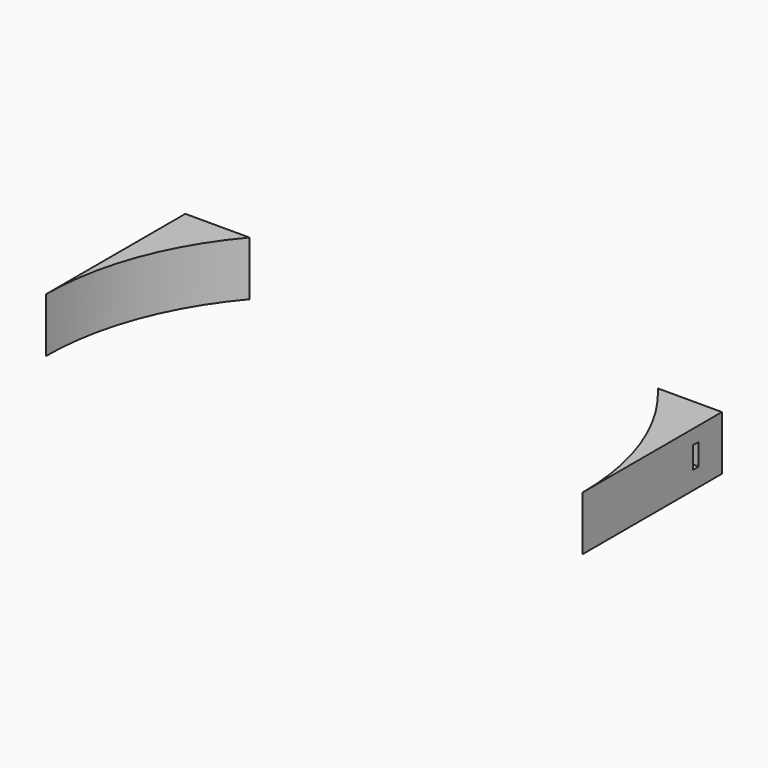
from build123d import *

# Parameters (mm, degrees)
CYLINDER2044_R     = 1.5
CYLINDER2044_DEPTH = 50
CYLINDER2045_R     = 1.5
CYLINDER2045_DEPTH = 50
BOX317_W           = 8
BOX317_H           = 2
BOX317_DEPTH       = 6
BOX316_W           = 8
BOX316_H           = 2
BOX316_DEPTH       = 6
CYLINDER2042_R     = 74
CYLINDER2042_DEPTH = 15
CYLINDER2043_R     = 74
CYLINDER2043_DEPTH = 15
BOX315_W           = 148
BOX315_H           = 48
BOX315_DEPTH       = 15


with BuildPart() as obj1:
    # Cylinder2044 → Cylinder2044 (new body)
    with BuildSketch(Plane(origin=(-71, 80, 24), x_dir=(1, 0, 0), z_dir=(0, -1, 0))):
        Circle(CYLINDER2044_R)
    extrude(amount=CYLINDER2044_DEPTH)


with BuildPart() as compound1088:
    # Cylinder2045 → Cylinder2045 (new body)
    with BuildSketch(Plane(origin=(71, 80, 24), x_dir=(1, 0, 0), z_dir=(0, -1, 0))):
        Circle(CYLINDER2045_R)
    extrude(amount=CYLINDER2045_DEPTH)

    # Compound1088: union obj1
    add(obj1.part)


with BuildPart() as krychle317:
    # Box317 → Box317 (new body)
    with BuildSketch(Plane(origin=(-75, 38, 21), x_dir=(1, 0, 0), z_dir=(0, 0, 1))):
        with Locations((4, 1)):
            Rectangle(BOX317_W, BOX317_H)
    extrude(amount=BOX317_DEPTH)


with BuildPart() as compound1087:
    # Box316 → Box316 (new body)
    with BuildSketch(Plane(origin=(67, 38, 21), x_dir=(1, 0, 0), z_dir=(0, 0, 1))):
        with Locations((4, 1)):
            Rectangle(BOX316_W, BOX316_H)
    extrude(amount=BOX316_DEPTH)

    # Compound1087: union Krychle317
    add(krychle317.part)


with BuildPart() as obj2:
    # Cylinder2042 → Cylinder2042 (new body)
    with BuildSketch(Plane.XY.offset(16)):
        Circle(CYLINDER2042_R)
    extrude(amount=CYLINDER2042_DEPTH)


with BuildPart() as obj3:
    # Cylinder2043 → Cylinder2043 (new body)
    with BuildSketch(Plane.XY.offset(16)):
        Circle(CYLINDER2043_R)
    extrude(amount=CYLINDER2043_DEPTH)


with BuildPart() as cut682:
    # Box315 → Box315 (new body)
    with BuildSketch(Plane(origin=(-74, 0, 16), x_dir=(1, 0, 0), z_dir=(0, 0, 1))):
        with Locations((74, 24)):
            Rectangle(BOX315_W, BOX315_H)
    extrude(amount=BOX315_DEPTH)

    # Cut684: cut obj3
    add(obj3.part, mode=Mode.SUBTRACT)

    # Cut685: cut obj2
    add(obj2.part, mode=Mode.SUBTRACT)

    # Cut681: cut Compound1087
    add(compound1087.part, mode=Mode.SUBTRACT)

    # Cut682: cut Compound1088
    add(compound1088.part, mode=Mode.SUBTRACT)


with BuildPart() as cut682_1:
    # Cut682 placement: moved
    add(cut682.part.moved(Location((0, 0, -2))))


solid = cut682_1.part
